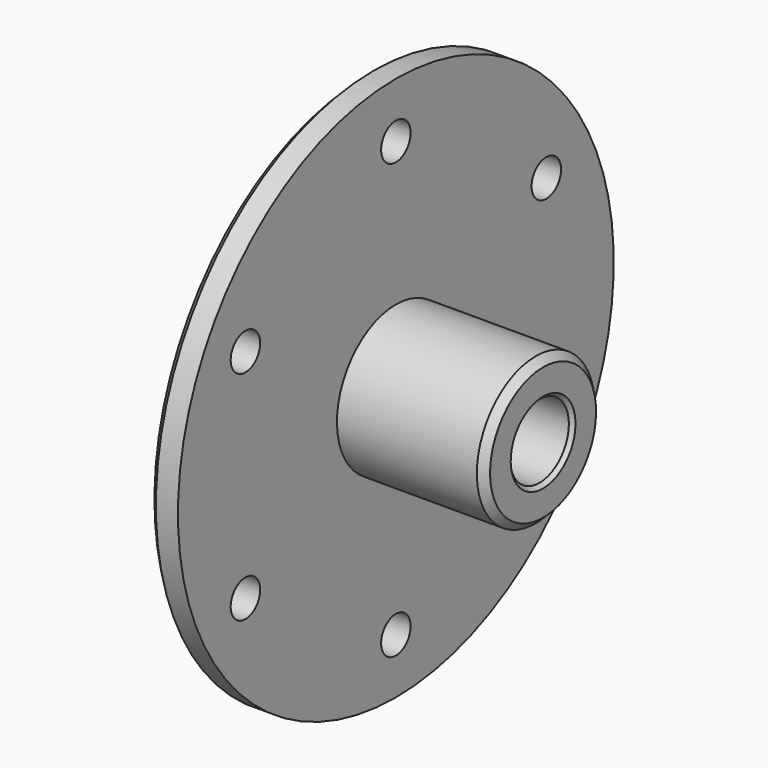
from build123d import *

# Parameters (mm, degrees)
F2_R     = 2.5
F3_DEPTH = 5.001
F4_SIZE  = 1
F5_SIZE  = 0.5


with BuildPart() as f1:
    # F0 (on Front) → F1 (revolve)
    with BuildSketch(Plane.XZ):
        Polygon((-5, 24), (-5, 5), (0, 5), (20, 5), (20, 10), (0, 10), (0, 37), (-4, 37), (-4, 24), align=None)
    revolve(axis=Axis((1.734695, 0, 0), (1, 0, 0)))

    # F2 (on face) → F3 (cut, through all)
    with BuildSketch(Plane.YZ):
        with Locations((0, 29.5)):
            Circle(F2_R)
        with Locations((-25.547749, 14.75)):
            Circle(F2_R)
        with Locations((-25.547749, -14.75)):
            Circle(F2_R)
        with Locations((0, -29.5)):
            Circle(F2_R)
        with Locations((25.547749, -14.75)):
            Circle(F2_R)
        with Locations((25.547749, 14.75)):
            Circle(F2_R)
    extrude(amount=-F3_DEPTH, mode=Mode.SUBTRACT)

    # F4
    f4_edges = [f1.edges().sort_by_distance(p)[0] for p in [
        (20, 0, -10),
        (-4, 0, -37),
    ]]
    chamfer(f4_edges, length=F4_SIZE)

    # F5
    f5_edges = [f1.edges().sort_by_distance(p)[0] for p in [
        (-5, 0, -5),
        (20, 0, -5),
    ]]
    chamfer(f5_edges, length=F5_SIZE)


solid = f1.part
